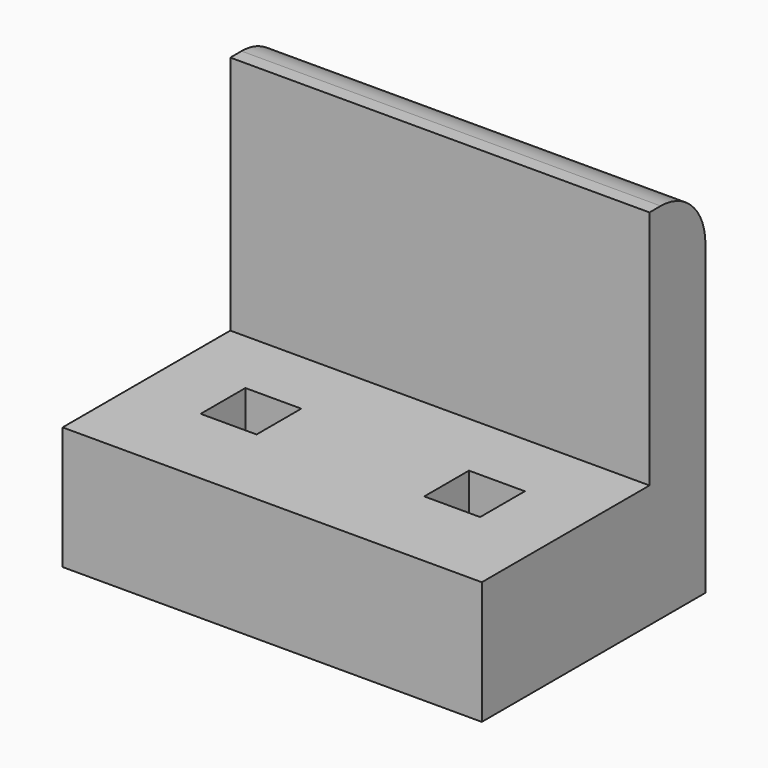
from build123d import *

# Parameters (mm, degrees)
F0_W     = 38.1
F0_H     = 33.02
F1_DEPTH = 25.4
F2_W     = 38.1
F2_H     = 21.844
F3_DEPTH = 19.05
F4_W     = 5.08
F4_H     = 5.08
F5_DEPTH = 7.62
F6_R     = 5.08


with BuildPart() as f1:
    # F0 (on Front) → F1 (new body)
    with BuildSketch(Plane.XZ):
        with Locations((19.05, 16.51)):
            Rectangle(F0_W, F0_H)
    extrude(amount=F1_DEPTH)

    # F2 (on face) → F3 (cut)
    with BuildSketch(Plane.XZ.offset(25.4)):
        with Locations((19.05, 22.098)):
            Rectangle(F2_W, F2_H)
    extrude(amount=-F3_DEPTH, mode=Mode.SUBTRACT)

    # F4 (on face) → F5 (cut)
    with BuildSketch(Plane.XY.offset(11.176)):
        with Locations((8.89, -15.113)):
            Rectangle(F4_W, F4_H)
        with Locations((29.21, -15.113)):
            Rectangle(F4_W, F4_H)
    extrude(amount=-F5_DEPTH, mode=Mode.SUBTRACT)

    # F6
    f6_edges = [f1.edges().sort_by_distance(p)[0] for p in [
        (19.05, 0, 33.02),
    ]]
    fillet(f6_edges, radius=F6_R)


solid = f1.part
